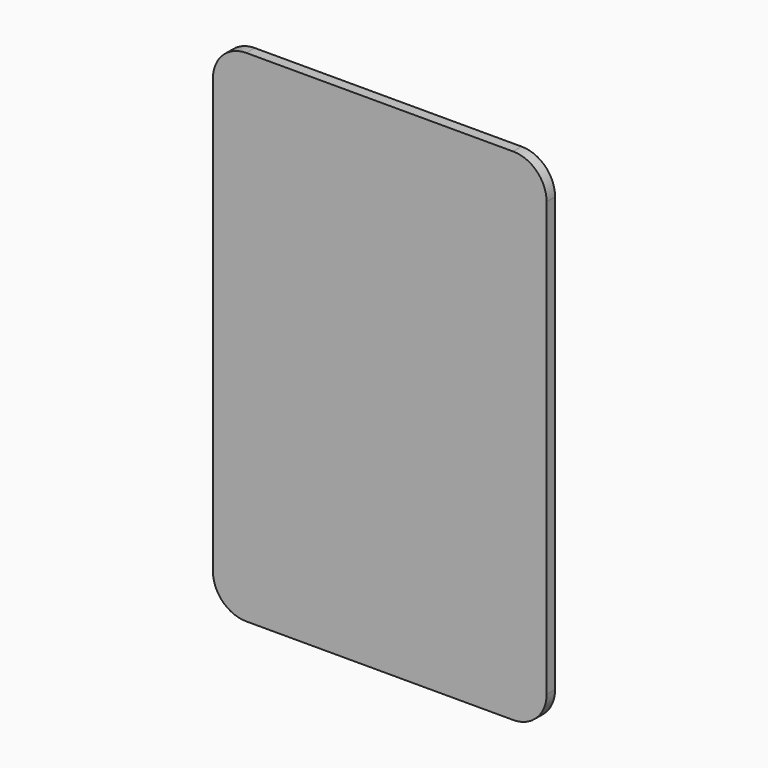
from build123d import *

# Parameters (mm, degrees)
F0_W     = 50
F0_H     = 50
F1_DEPTH = 3.175


with BuildPart() as f1:
    # F0 (on Front) → F1 (new body)
    with BuildSketch(Plane.XZ):
        with BuildLine():
            Line((40, 75), (-40, 75))
            ThreePointArc((-40, 75), (-47.071068, 72.071068), (-50, 65))
            Line((-50, 65), (-50, -65))
            ThreePointArc((-50, -65), (-47.071068, -72.071068), (-40, -75))
            Line((-40, -75), (40, -75))
            ThreePointArc((40, -75), (47.071068, -72.071068), (50, -65))
            Line((50, -65), (50, 65))
            ThreePointArc((50, 65), (47.071068, 72.071068), (40, 75))
        make_face()
        Rectangle(F0_W, F0_H, mode=Mode.SUBTRACT)
        Rectangle(F0_W, F0_H)
    extrude(amount=F1_DEPTH)


solid = f1.part
